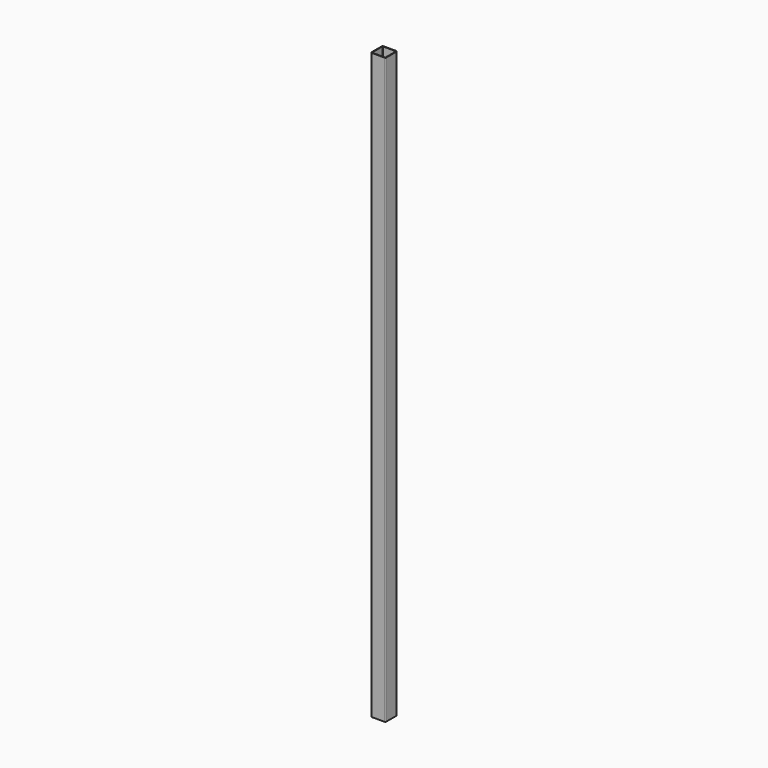
from build123d import *

# Parameters (mm, degrees)
F1_DEPTH = 2000


with BuildPart() as f1:
    # F0 (on Top) → F1 (new body)
    with BuildSketch(Plane.XY):
        with BuildLine():
            ThreePointArc((25, 22), (24.12132, 24.12132), (22, 25))
            Line((22, 25), (-22, 25))
            ThreePointArc((-22, 25), (-24.12132, 24.12132), (-25, 22))
            Line((-25, 22), (-25, -22))
            ThreePointArc((-25, -22), (-24.12132, -24.12132), (-22, -25))
            Line((-22, -25), (22, -25))
            ThreePointArc((22, -25), (24.12132, -24.12132), (25, -22))
            Line((25, -22), (25, 22))
        make_face()
        with BuildLine():
            ThreePointArc((23, -22), (22.707107, -22.707107), (22, -23))
            Line((22, -23), (-22, -23))
            ThreePointArc((-22, -23), (-22.707107, -22.707107), (-23, -22))
            Line((-23, -22), (-23, 22))
            ThreePointArc((-23, 22), (-22.707107, 22.707107), (-22, 23))
            Line((-22, 23), (23, 23))
            Line((23, 23), (23, -22))
        make_face(mode=Mode.SUBTRACT)
    extrude(amount=F1_DEPTH)


solid = f1.part
